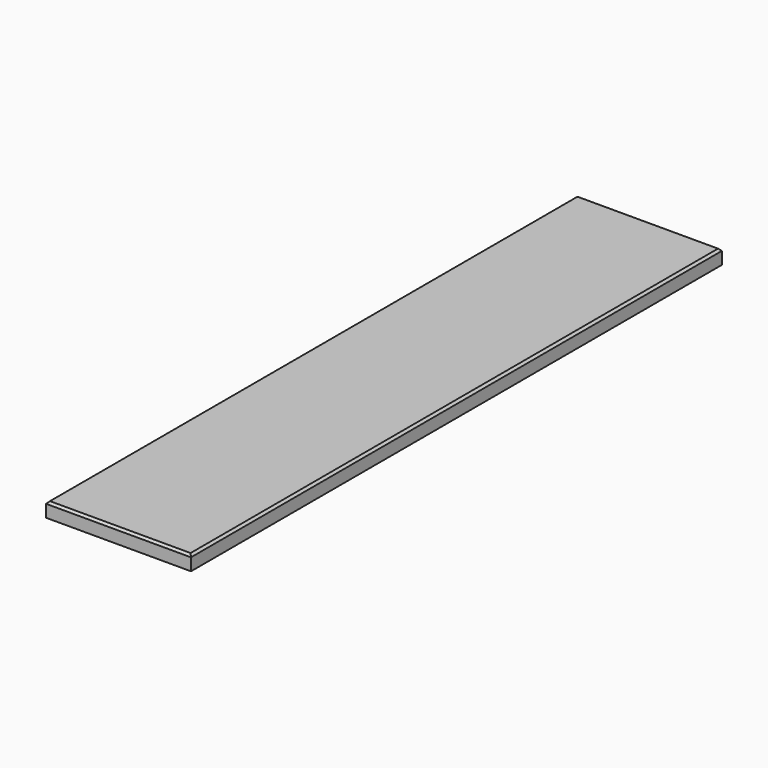
from build123d import *

# Parameters (mm, degrees)
F0_W     = 200
F0_H     = 20
F1_DEPTH = 458
F2_SIZE  = 3


with BuildPart() as f1:
    # F0 (on Front) → F1 (new body, symmetric)
    with BuildSketch(Plane.XZ):
        Rectangle(F0_W, F0_H)
    extrude(amount=F1_DEPTH, both=True)

    # F2
    f2_edges = [f1.edges().sort_by_distance(p)[0] for p in [
        (100, 0, 10),
        (-100, 0, 10),
        (0, -458, 10),
        (0, 458, 10),
    ]]
    chamfer(f2_edges, length=F2_SIZE)


solid = f1.part
